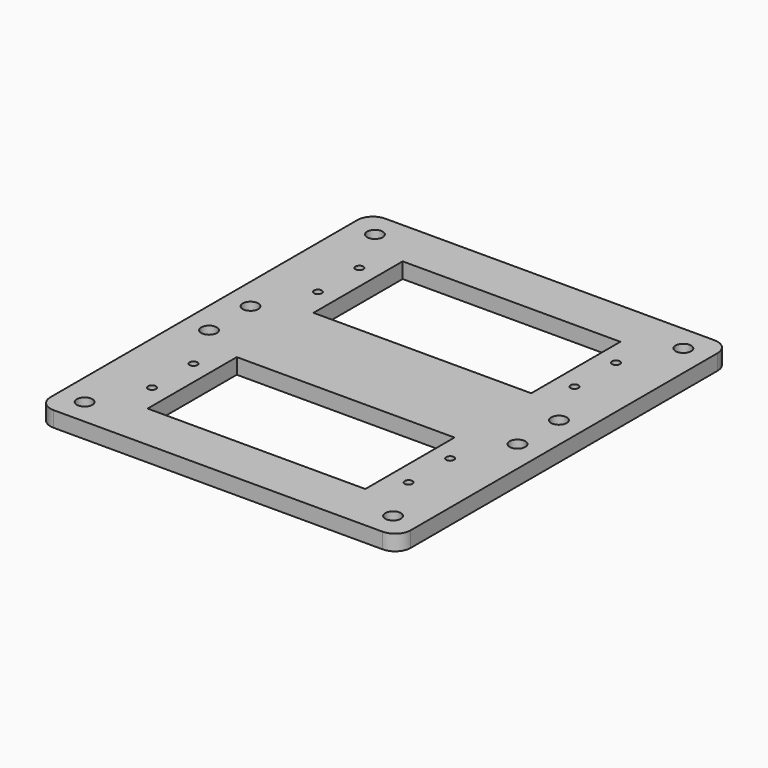
from build123d import *

# Parameters (mm, degrees)
F0_W     = 69.5
F0_H     = 40
F0_R     = 1.5
F0_R_2   = 0.75
F0_W_2   = 42
F0_H_2   = 21.5
F1_DEPTH = 3
F3_R     = 3


with BuildPart() as f1:
    # F0 (on Top) → F1 (new body)
    with BuildSketch(Plane.XY):
        Rectangle(F0_W, F0_H)
        with Locations((-29.75, -15)):
            Circle(F0_R, mode=Mode.SUBTRACT)
        with Locations((-24.75, -5)):
            Circle(F0_R_2, mode=Mode.SUBTRACT)
        with Locations((29.75, -15)):
            Circle(F0_R, mode=Mode.SUBTRACT)
        with Locations((24.75, -5)):
            Circle(F0_R_2, mode=Mode.SUBTRACT)
        with Locations((-24.75, 5)):
            Circle(F0_R_2, mode=Mode.SUBTRACT)
        with Locations((-29.75, 15)):
            Circle(F0_R, mode=Mode.SUBTRACT)
        Rectangle(F0_W_2, F0_H_2, mode=Mode.SUBTRACT)
        with Locations((24.75, 5)):
            Circle(F0_R_2, mode=Mode.SUBTRACT)
        with Locations((29.75, 15)):
            Circle(F0_R, mode=Mode.SUBTRACT)
    extrude(amount=F1_DEPTH)

    # F2: F1 across face


with BuildPart() as f1_1:
    add(f1.part)
    add(f1.part.mirror(Plane(origin=(0, -20, 1.5), x_dir=(1, 0, 0), z_dir=(0, -1, 0))))

    # F3
    f3_edges = [f1_1.edges().sort_by_distance(p)[0] for p in [
        (-34.75, -60, 1.5),
        (34.75, -60, 1.5),
        (34.75, 20, 1.5),
        (-34.75, 20, 1.5),
    ]]
    fillet(f3_edges, radius=F3_R)


solid = f1_1.part
